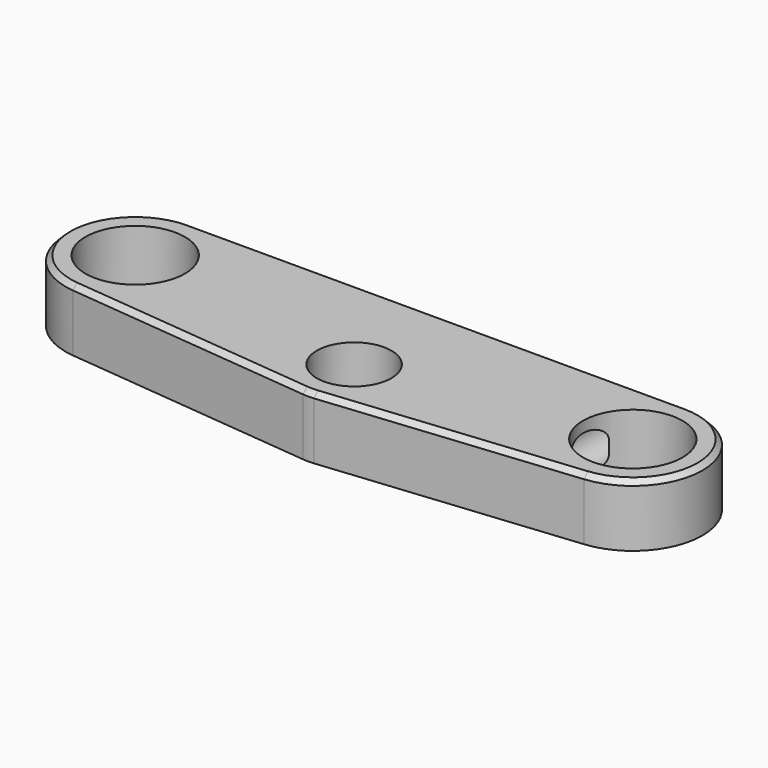
from build123d import *

# Parameters (mm, degrees)
F0_R     = 9.525
F0_R_2   = 12.7
F1_DEPTH = 15.875
F3_DEPTH = 31.75
F4_SIZE  = 1.27


with BuildPart() as f1:
    # F0 (on Top) → F1 (new body)
    with BuildSketch(Plane.XY):
        with BuildLine():
            Line((63.5, 27.305), (-63.5, 27.305))
            ThreePointArc((-63.5, 27.305), (-81.258035, 10.408506), (-65.264829, -8.167195))
            Line((-65.264829, -8.167195), (-1.449681, -14.532875))
            ThreePointArc((-1.449681, -14.532875), (0, -14.605), (1.449681, -14.532875))
            Line((1.449681, -14.532875), (65.264829, -8.167195))
            ThreePointArc((65.264829, -8.167195), (81.258035, 10.408506), (63.5, 27.305))
        make_face()
        Circle(F0_R, mode=Mode.SUBTRACT)
        with Locations((-63.5, 9.525)):
            Circle(F0_R_2, mode=Mode.SUBTRACT)
        with Locations((63.5, 9.525)):
            Circle(F0_R_2, mode=Mode.SUBTRACT)
    extrude(amount=F1_DEPTH)

    # F2 (on face) → F3 (cut)
    with BuildSketch(Plane(origin=(0, 27.305, 0), x_dir=(-1, 0, 0), z_dir=(0, 1, 0))):
        with BuildLine():
            Line((52.451, 6.4262), (52.451, 9.4488))
            ThreePointArc((52.451, 9.4488), (47.625, 14.2748), (42.799, 9.4488))
            Line((42.799, 9.4488), (42.799, 6.4262))
            ThreePointArc((42.799, 6.4262), (47.625, 1.6002), (52.451, 6.4262))
        make_face()
        with BuildLine():
            ThreePointArc((-42.799, 9.4488), (-47.625, 14.2748), (-52.451, 9.4488))
            Line((-52.451, 9.4488), (-52.451, 6.4262))
            ThreePointArc((-52.451, 6.4262), (-47.625, 1.6002), (-42.799, 6.4262))
            Line((-42.799, 6.4262), (-42.799, 9.4488))
        make_face()
    extrude(amount=-F3_DEPTH, mode=Mode.SUBTRACT)

    # F4
    f4_edges = [f1.edges().sort_by_distance(p)[0] for p in [
        (-81.258035, 10.408506, 15.875),
    ]]
    chamfer(f4_edges, length=F4_SIZE)


solid = f1.part
